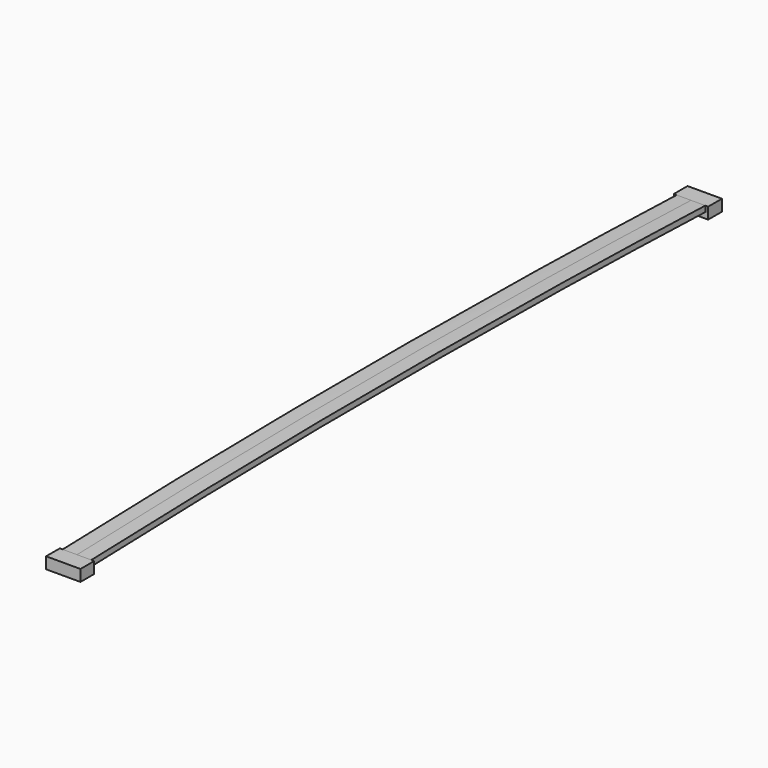
from build123d import *

# Parameters (mm, degrees)
F1_DEPTH = 25
F2_DEPTH = 30


with BuildPart() as f1:
    # F0 (on Right) → F1 (new body, symmetric)
    with BuildSketch(Plane.YZ):
        with BuildLine():
            Line((670.0000019844, 0.0057839585), (669.9991416782, 10))
            add(Edge.make_bspline(
                [(-670.0008632864, 10), (-221.8311803419, 25.190444721), (223.5680336059, 25.190444721), (669.9991416782, 10)],
                knots=[0, 0, 0, 0, 1340.0000049646, 1340.0000049646, 1340.0000049646, 1340.0000049646], degree=3))
            Line((-670.0008632864, 10), (-670.0000029738, 0.0057101232))
            Line((-670.0000029738, 0.0057101232), (-669.6621137639, 0.0057392089))
            add(Edge.make_bspline(
                [(-669.6621137639, 0.0057392089), (-221.7166102489, 15.1885855015), (223.4538922618, 15.1885412345), (669.6590744572, 0.0057839585)],
                knots=[0, 0, 0, 0, 1, 1, 1, 1], degree=3))
            Line((669.6590744572, 0.0057839585), (670.0000019844, 0.0057839585))
        make_face()
    extrude(amount=F1_DEPTH, both=True)

    # F0 (on Right) → F2 (join, symmetric)
    with BuildSketch(Plane.YZ):
        Polygon((-670.0000029738, 0.0057101232), (-670.0008632864, 10), (-699.9999998281, 10), (-699.9999998281, -10), (-669.9991416782, -10), align=None)
        Polygon((699.9999998281, -10), (699.9999998281, 10), (669.9991416782, 10), (670.0000019844, 0.0057839585), (670.0008632864, -10), align=None)
    extrude(amount=F2_DEPTH, both=True)


solid = f1.part
